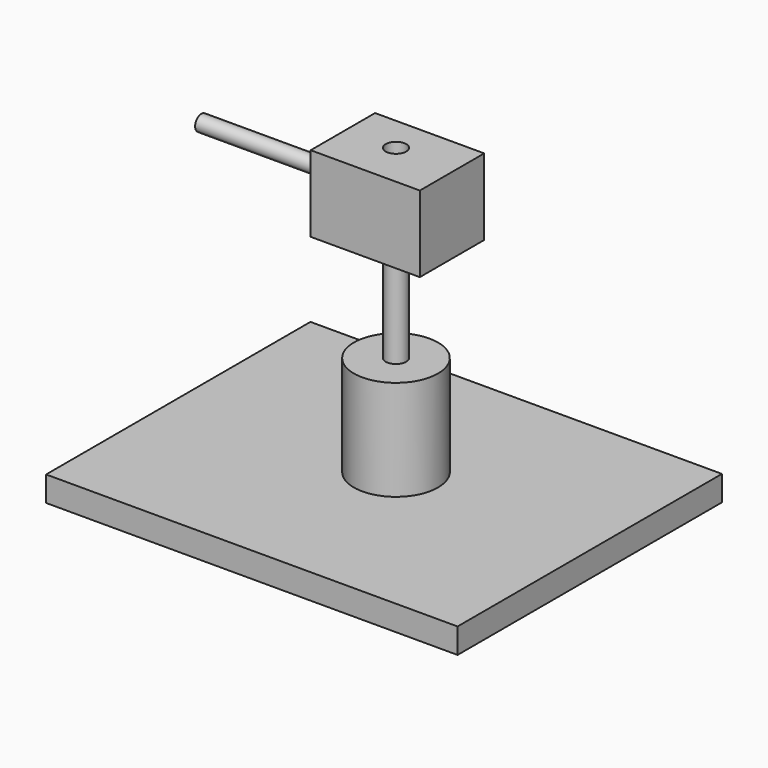
from build123d import *

# Parameters (mm, degrees)
F0_W      = 104.1550263762
F0_H      = 83.6396403611
F1_DEPTH  = 6.35
F2_R      = 10.6484178823
F3_DEPTH  = 25.4
F5_R      = 2.5882869315
F6_DEPTH  = 25.4
F7_R      = 5.9244502738
F7_R_2    = 2.5882869315
F8_DEPTH  = 2.1336
F9_W      = 27.6307915337
F9_H      = 20.3739050776
F9_R      = 5.9244502738
F9_R_2    = 2.5882869315
F10_DEPTH = 19.304
F11_R     = 1.9793730785
F12_DEPTH = 35.814


with BuildPart() as f1:
    # F0 (on Top) → F1 (new body)
    with BuildSketch(Plane.XY):
        with Locations((4.7343187034, -2.2093486041)):
            Rectangle(F0_W, F0_H)
    extrude(amount=F1_DEPTH)

    # F2 (on face) → F3 (join)
    with BuildSketch(Plane.XY.offset(6.35)):
        with Locations((5.9968070127, 0)):
            Circle(F2_R)
    extrude(amount=F3_DEPTH)

    # F5 (on face) → F6 (join)
    with BuildSketch(Plane.XY.offset(31.75)):
        with Locations((5.9968070127, 0)):
            Circle(F5_R)
    extrude(amount=F6_DEPTH)


with BuildPart() as f8:
    # F7 (on face) → F8 (new body)
    with BuildSketch(Plane.XY.offset(57.15)):
        with Locations((5.9968070127, 0)):
            Circle(F7_R)
        with Locations((5.9968070127, 0)):
            Circle(F7_R_2, mode=Mode.SUBTRACT)
    extrude(amount=F8_DEPTH)

    # F9 (on face) → F10 (join)
    with BuildSketch(Plane.XY.offset(59.2836)):
        with Locations((7.2904357221, -1.1476604268)):
            Rectangle(F9_W, F9_H)
        with Locations((5.9968070127, 0)):
            Circle(F9_R, mode=Mode.SUBTRACT)
        with Locations((5.9968070127, 0)):
            Circle(F9_R)
        with Locations((5.9968070127, 0)):
            Circle(F9_R_2, mode=Mode.SUBTRACT)
    extrude(amount=F10_DEPTH)

    # F11 (on face) → F12 (join)
    with BuildSketch(Plane(origin=(-6.5249600448, 0, 0), x_dir=(0, -1, 0), z_dir=(-1, 0, 0))):
        with Locations((1.1476604268, 68.9356)):
            Circle(F11_R)
    extrude(amount=F12_DEPTH)


solid = Compound([f1.part, f8.part])
